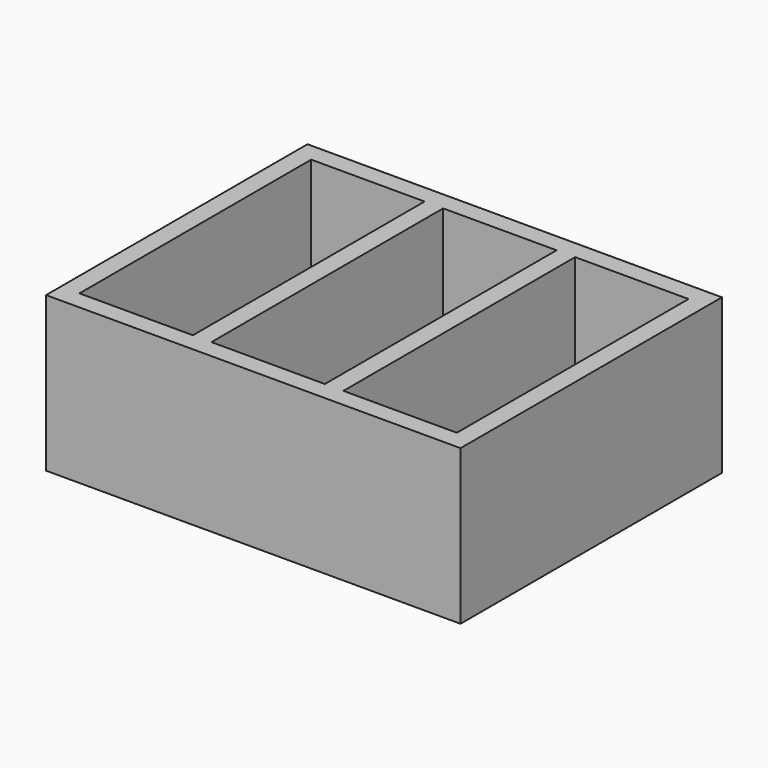
from build123d import *

# Parameters (mm, degrees)
F0_W     = 67.017666
F0_H     = 52.83216
F1_DEPTH = 25
F2_W     = 18.339222
F2_H     = 46.83216
F3_DEPTH = 20


with BuildPart() as f1:
    # F0 (on Top) → F1 (new body)
    with BuildSketch(Plane.XY):
        Rectangle(F0_W, F0_H)
    extrude(amount=F1_DEPTH)

    # F2 (on face) → F3 (cut)
    with BuildSketch(Plane.XY.offset(25)):
        with Locations((-21.339222, 0)):
            Rectangle(F2_W, F2_H)
        Rectangle(F2_W, F2_H)
        with Locations((21.339222, 0)):
            Rectangle(F2_W, F2_H)
    extrude(amount=-F3_DEPTH, mode=Mode.SUBTRACT)


solid = f1.part
